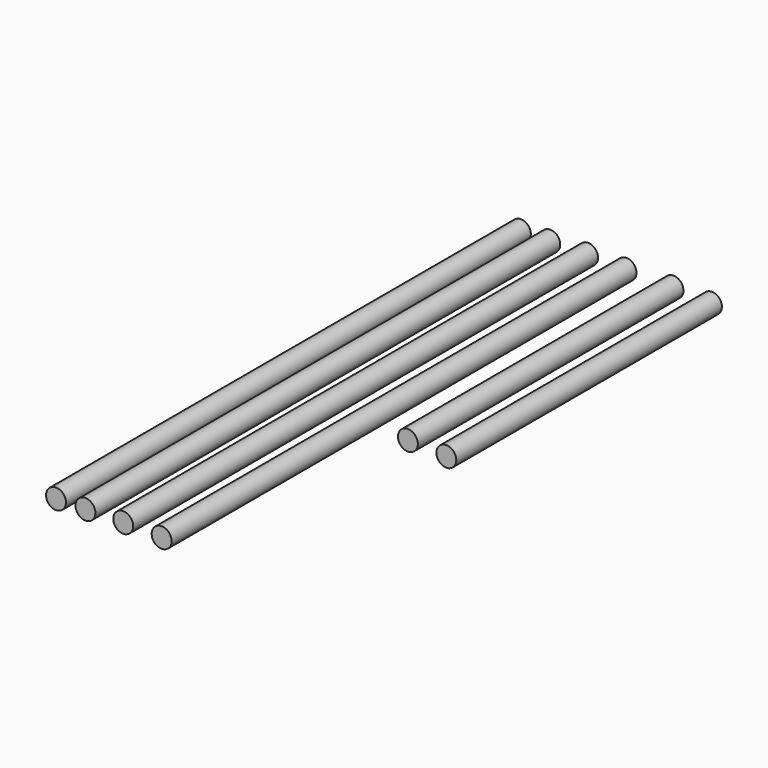
from build123d import *

# Parameters (mm, degrees)
F0_R     = 6
F1_DEPTH = 350
F2_DEPTH = 200


with BuildPart() as f1:
    # F0 (on Front) → F1 (new body)
    with BuildSketch(Plane.XZ):
        with Locations((-76.155537, 41.342228)):
            Circle(F0_R)
        with Locations((-58.446774, 41.553046)):
            Circle(F0_R)
        with Locations((-35.678369, 41.974683)):
            Circle(F0_R)
        with Locations((-12.535081, 41.50657)):
            Circle(F0_R)
    extrude(amount=F1_DEPTH)


with BuildPart() as f2:
    # F0 (on Front) → F2 (new body)
    with BuildSketch(Plane.XZ):
        with Locations((15.774932, 41.314647)):
            Circle(F0_R)
        with Locations((38.937666, 40.280245)):
            Circle(F0_R)
    extrude(amount=F2_DEPTH)


solid = Compound([f1.part, f2.part])
